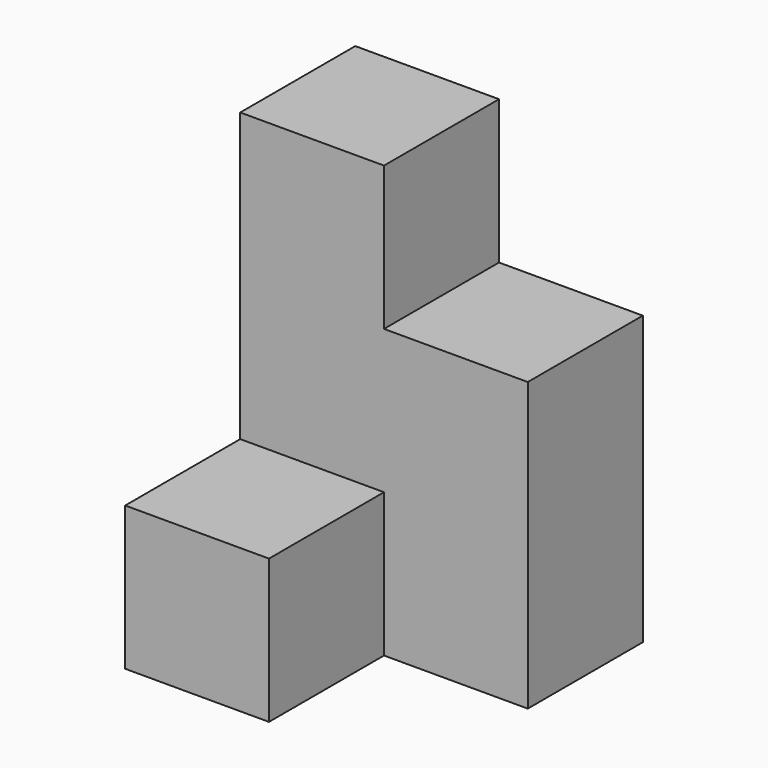
from build123d import *

# Parameters (mm, degrees)
F0_W     = 38.1
F0_H     = 38.1
F1_DEPTH = 57.15
F2_W     = 19.05
F2_H     = 19.05
F3_DEPTH = 57.151
F4_W     = 19.05
F4_H     = 19.05
F5_DEPTH = 19.05
F6_W     = 19.05
F6_H     = 19.05
F7_DEPTH = 38.1


with BuildPart() as f1:
    # F0 (on Top) → F1 (new body)
    with BuildSketch(Plane.XY):
        with Locations((19.05, 19.05)):
            Rectangle(F0_W, F0_H)
    extrude(amount=F1_DEPTH)

    # F2 (on face) → F3 (cut, through all)
    with BuildSketch(Plane.XY.offset(57.15)):
        with Locations((28.575, 9.525)):
            Rectangle(F2_W, F2_H)
    extrude(amount=-F3_DEPTH, mode=Mode.SUBTRACT)

    # F4 (on face) → F5 (cut)
    with BuildSketch(Plane.XY.offset(57.15)):
        with Locations((28.575, 28.575)):
            Rectangle(F4_W, F4_H)
    extrude(amount=-F5_DEPTH, mode=Mode.SUBTRACT)

    # F6 (on face) → F7 (cut)
    with BuildSketch(Plane.XY.offset(57.15)):
        with Locations((9.525, 9.525)):
            Rectangle(F6_W, F6_H)
    extrude(amount=-F7_DEPTH, mode=Mode.SUBTRACT)


solid = f1.part
